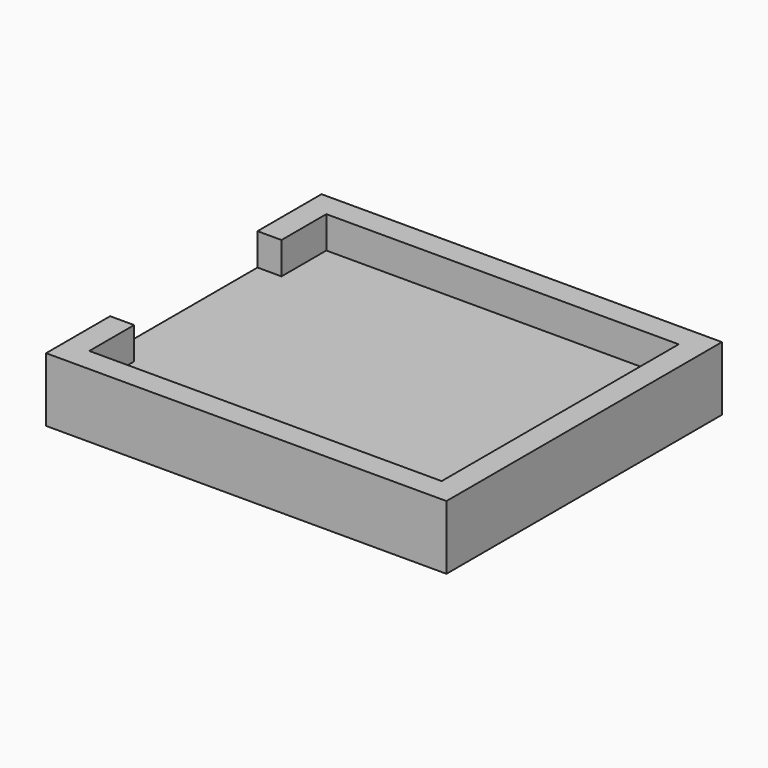
from build123d import *

# Parameters (mm, degrees)
SKETCH_W     = 25
SKETCH_H     = 21.5
PAD_DEPTH    = 4
POCKET_DEPTH = 2


with BuildPart() as part:
    # Sketch → Pad (new body)
    with BuildSketch(Plane.XY):
        with Locations((12.5, 10.75)):
            Rectangle(SKETCH_W, SKETCH_H)
    extrude(amount=PAD_DEPTH)

    # Sketch001 (on Face6 of Pad) → Pocket (cut)
    with BuildSketch(Plane.XY.offset(4)):
        Polygon((1.5, 20), (23.5, 20), (23.5, 1.5), (1.5, 1.5), (1.5, 5), (0, 5), (0, 16.5), (1.5, 16.5), align=None)
    extrude(amount=-POCKET_DEPTH, mode=Mode.SUBTRACT)


solid = part.part
